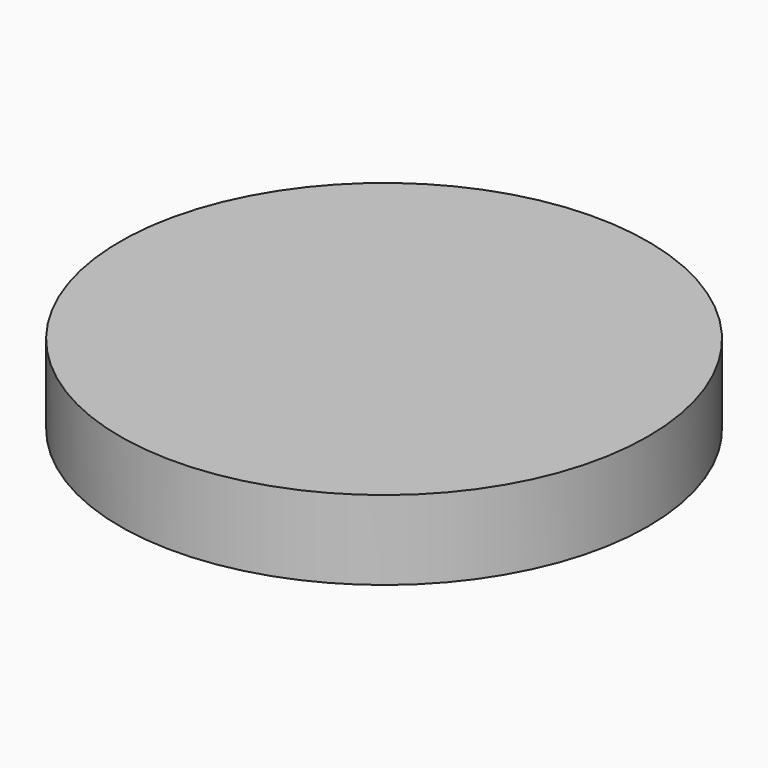
from build123d import *

# Parameters (mm, degrees)
SKETCH_R      = 10
EXTRUDE_DEPTH = 3


with BuildPart() as part:
    # Sketch → Extrude (new body)
    with BuildSketch(Plane.XY):
        Circle(SKETCH_R)
    extrude(amount=EXTRUDE_DEPTH)


solid = part.part
